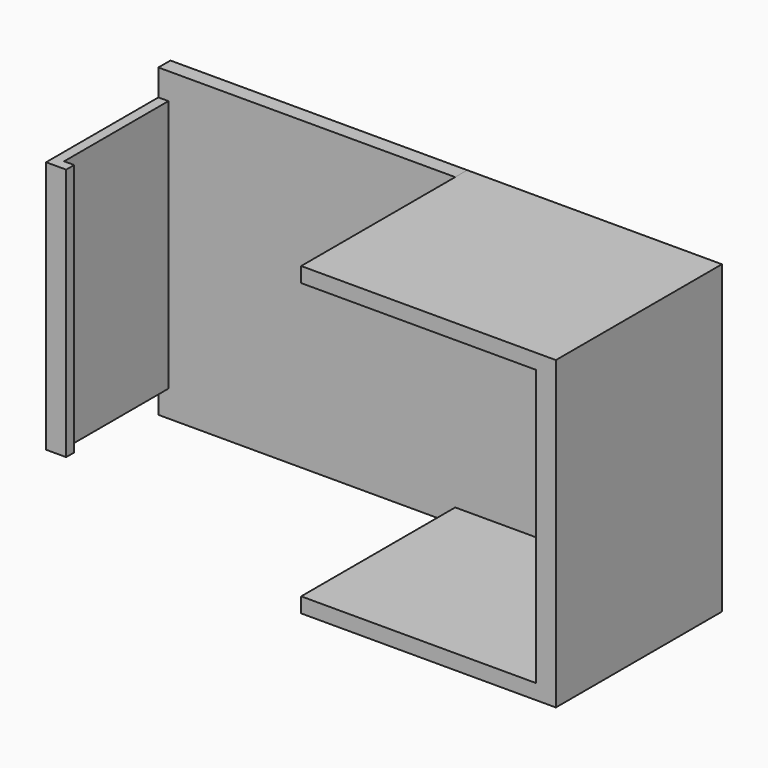
from build123d import *

# Parameters (mm, degrees)
F0_W     = 1
F0_H     = 25.24283
F1_DEPTH = 15.5
F0_W_2   = 2
F0_H_2   = 27.5
F2_DEPTH = 20.7
F3_DEPTH = 1.5
F4_W     = 1
F4_H     = 25.24283
F5_DEPTH = 1


with BuildPart() as f1:
    # F0 (on Front) → F1 (new body)
    with BuildSketch(Plane.XZ):
        with Locations((-27, 0)):
            Rectangle(F0_W, F0_H)
    extrude(amount=F1_DEPTH)

    # F4 (on face) → F5 (join)
    with BuildSketch(Plane.YZ.offset(-26.5)):
        with Locations((-15, 0)):
            Rectangle(F4_W, F4_H)
    extrude(amount=F5_DEPTH)


with BuildPart() as f2:
    # F0 (on Front) → F2 (new body)
    with BuildSketch(Plane.XZ):
        Polygon((25.5, 13.75), (27.5, 13.75), (27.5, 15.25), (2.1, 15.25), (2.1, 13.75), align=None)
        Polygon((2.1, -15.25), (27.5, -15.25), (27.5, -13.75), (25.5, -13.75), (2.1, -13.75), align=None)
        with Locations((26.5, 0)):
            Rectangle(F0_W_2, F0_H_2)
    extrude(amount=F2_DEPTH)


with BuildPart() as f3:
    # F0 (on Front) → F3 (new body)
    with BuildSketch(Plane.XZ):
        Polygon((-27.5, -15.25), (2.1, -15.25), (2.1, -13.75), (25.5, -13.75), (25.5, 13.75), (2.1, 13.75), (2.1, 15.25), (-27.5, 15.25), (-27.5, 12.621415), (-26.5, 12.621415), (-26.5, -12.621415), (-27.5, -12.621415), align=None)
    extrude(amount=F3_DEPTH)


solid = Compound([f1.part, f2.part, f3.part])
